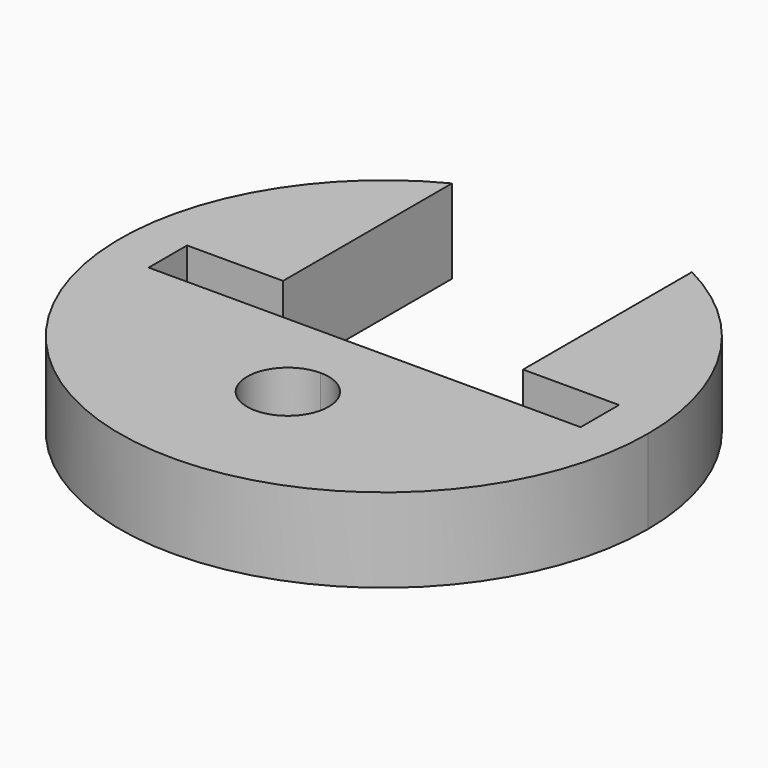
from build123d import *

# Parameters (mm, degrees)
F1_DEPTH = 3.5


with BuildPart() as f1:
    # F0 (on Top) → F1 (new body)
    with BuildSketch(Plane.XY):
        with BuildLine():
            ThreePointArc((-5, 9.797959), (-5.744563, -9.380832), (11, 0))
            ThreePointArc((11, 0), (9.380832, 5.744563), (5, 9.797959))
            Line((5, 9.797959), (5, 1))
            Line((5, 1), (9, 1))
            Line((9, 1), (9, -1))
            Line((9, -1), (0, -1))
            Line((0, -1), (-9, -1))
            Line((-9, -1), (-9, 1))
            Line((-9, 1), (-5, 1))
            Line((-5, 1), (-5, 9.797959))
        make_face()
        with BuildLine():
            ThreePointArc((1.7, -5), (-1.202082, -6.202082), (0, -3.3))
            ThreePointArc((0, -3.3), (1.202082, -3.797918), (1.7, -5))
        make_face(mode=Mode.SUBTRACT)
    extrude(amount=F1_DEPTH)


solid = f1.part
